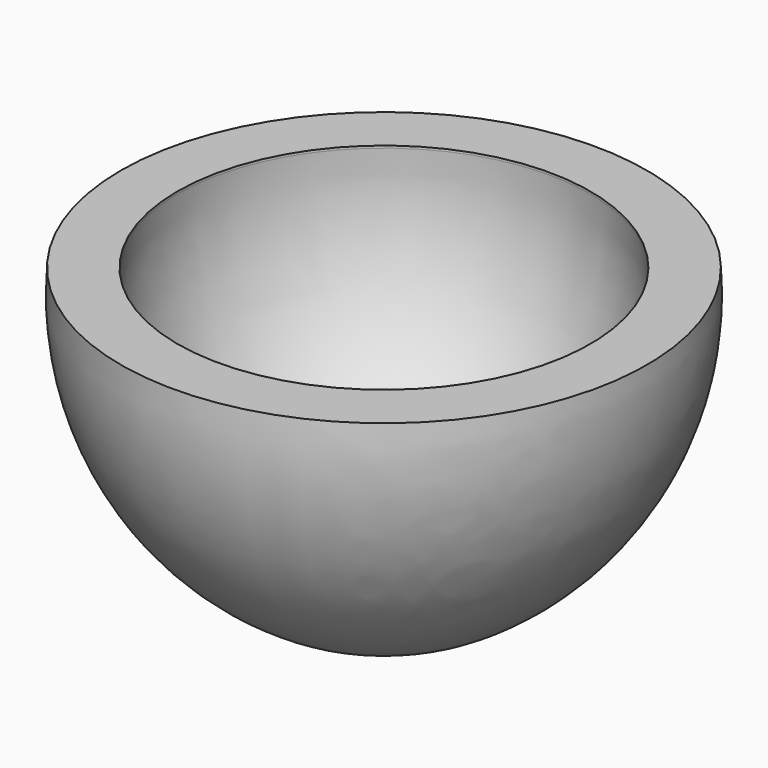
from build123d import *


with BuildPart() as f1:
    # F0 (on Front) → F1 (revolve)
    with BuildSketch(Plane.XZ):
        with BuildLine():
            Line((-20, 0), (0, 0))
            Line((0, 0), (0, 16))
            Line((0, 16), (-24.484906, 16))
            ThreePointArc((-24.484906, 16), (-34.148528, 31.49062), (-36.5, 49.596296))
            Line((-36.5, 49.596296), (-36.5, 50))
            Line((-36.5, 50), (-46.5, 50))
            ThreePointArc((-46.5, 50), (-40.493594, 21.160895), (-20, 0))
        make_face()
    revolve(axis=Axis((0, 0, 8), (0, 0, 1)))


solid = f1.part
